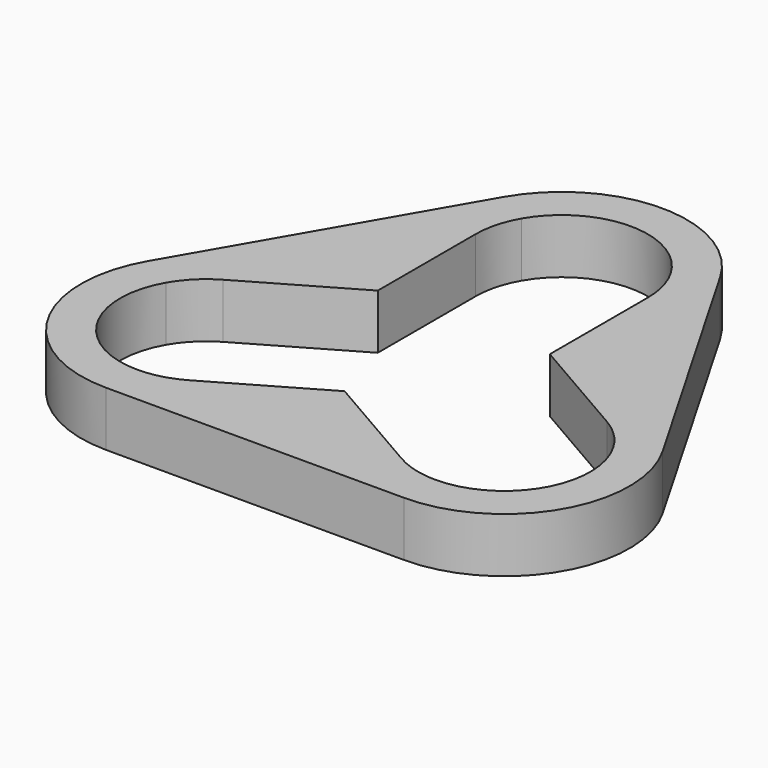
from build123d import *

# Parameters (mm, degrees)
F1_DEPTH = 7


with BuildPart() as f1:
    # F0 (on Top) → F1 (new body)
    with BuildSketch(Plane.XY):
        with BuildLine():
            Line((32.908965, -3), (13.856406, 30))
            ThreePointArc((13.856406, 30), (0, 38), (-13.856406, 30))
            Line((-13.856406, 30), (-32.908965, -3))
            ThreePointArc((-32.908965, -3), (-32.908965, -19), (-19.052559, -27))
            Line((-19.052559, -27), (19.052559, -27))
            ThreePointArc((19.052559, -27), (32.908965, -19), (32.908965, -3))
        make_face()
        with BuildLine():
            ThreePointArc((-9.526279, 27.5), (0, 33), (9.526279, 27.5))
            Line((9.526279, 27.5), (28.578838, -5.5))
            ThreePointArc((28.578838, -5.5), (28.578838, -16.5), (19.052559, -22))
            Line((19.052559, -22), (-19.052559, -22))
            ThreePointArc((-19.052559, -22), (-28.578838, -16.5), (-28.578838, -5.5))
            Line((-28.578838, -5.5), (-9.526279, 27.5))
        make_face(mode=Mode.SUBTRACT)
        with BuildLine():
            ThreePointArc((-11, 22), (-10.625184, 24.847009), (-9.526279, 27.5))
            Line((-9.526279, 27.5), (-28.578838, -5.5))
            ThreePointArc((-28.578838, -5.5), (-26.830733, -3.221825), (-24.552559, -1.473721))
            Line((-24.552559, -1.473721), (-11, 6.350853))
            Line((-11, 6.350853), (-11, 22))
        make_face()
        with BuildLine():
            Line((28.578838, -5.5), (9.526279, 27.5))
            ThreePointArc((9.526279, 27.5), (10.625184, 24.847009), (11, 22))
            Line((11, 22), (11, 6.350853))
            Line((11, 6.350853), (24.552559, -1.473721))
            ThreePointArc((24.552559, -1.473721), (26.830733, -3.221825), (28.578838, -5.5))
        make_face()
        with BuildLine():
            Line((-19.052559, -22), (19.052559, -22))
            ThreePointArc((19.052559, -22), (16.205549, -21.625184), (13.552559, -20.526279))
            Line((13.552559, -20.526279), (0, -12.701706))
            Line((0, -12.701706), (-13.552559, -20.526279))
            ThreePointArc((-13.552559, -20.526279), (-16.205549, -21.625184), (-19.052559, -22))
        make_face()
    extrude(amount=F1_DEPTH)


solid = f1.part
